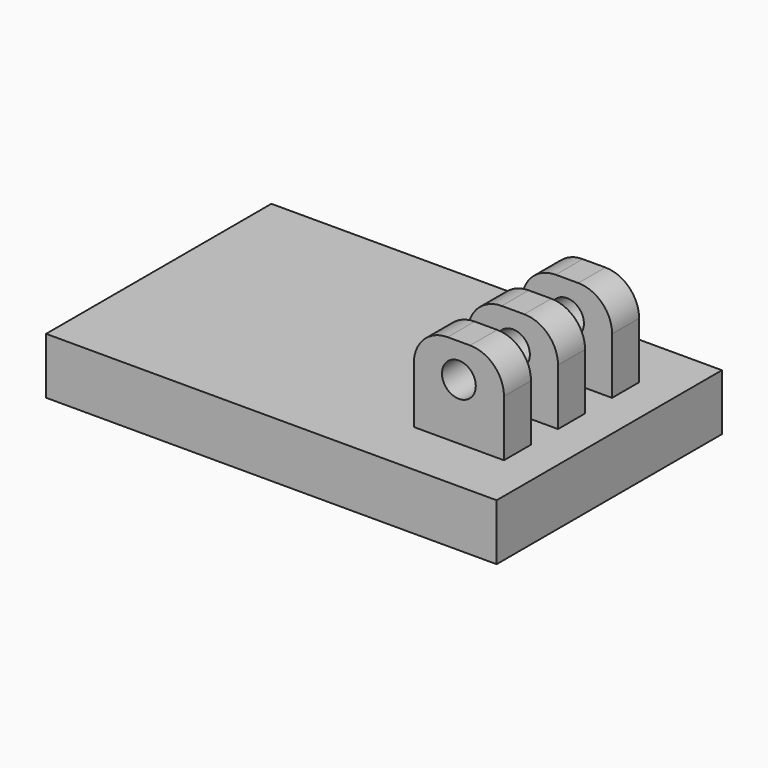
from build123d import *

# Parameters (mm, degrees)
F0_W     = 40
F0_H     = 25
F1_DEPTH = 5
F2_W     = 8
F2_H     = 3
F3_DEPTH = 8
F4_R     = 3
F6_DEPTH = 25


with BuildPart() as f1:
    # F0 (on Top) → F1 (new body)
    with BuildSketch(Plane.XY):
        Rectangle(F0_W, F0_H)
    extrude(amount=F1_DEPTH)

    # F2 (on face) → F3 (join)
    with BuildSketch(Plane.XY.offset(5)):
        with Locations((12.6486493205, 6)):
            Rectangle(F2_W, F2_H)
        with Locations((12.6486493205, 0)):
            Rectangle(F2_W, F2_H)
        with Locations((12.6486493205, -6)):
            Rectangle(F2_W, F2_H)
    extrude(amount=F3_DEPTH)

    # F4
    f4_edges = [f1.edges().sort_by_distance(p)[0] for p in [
        (8.648649, -6, 13),
        (16.648649, -6, 13),
        (8.648649, 0, 13),
        (16.648649, 0, 13),
        (8.648649, 6, 13),
        (16.648649, 6, 13),
    ]]
    fillet(f4_edges, radius=F4_R)

    # F5 (on face) → F6 (cut)
    with BuildSketch(Plane.XZ.offset(7.5)):
        with BuildLine():
            ThreePointArc((14.1486493205, 10), (13.7093094923, 11.0606601718), (12.6486493205, 11.5))
            ThreePointArc((12.6486493205, 11.5), (11.5879891487, 8.9393398282), (14.1486493205, 10))
        make_face()
    extrude(amount=-F6_DEPTH, mode=Mode.SUBTRACT)


solid = f1.part
